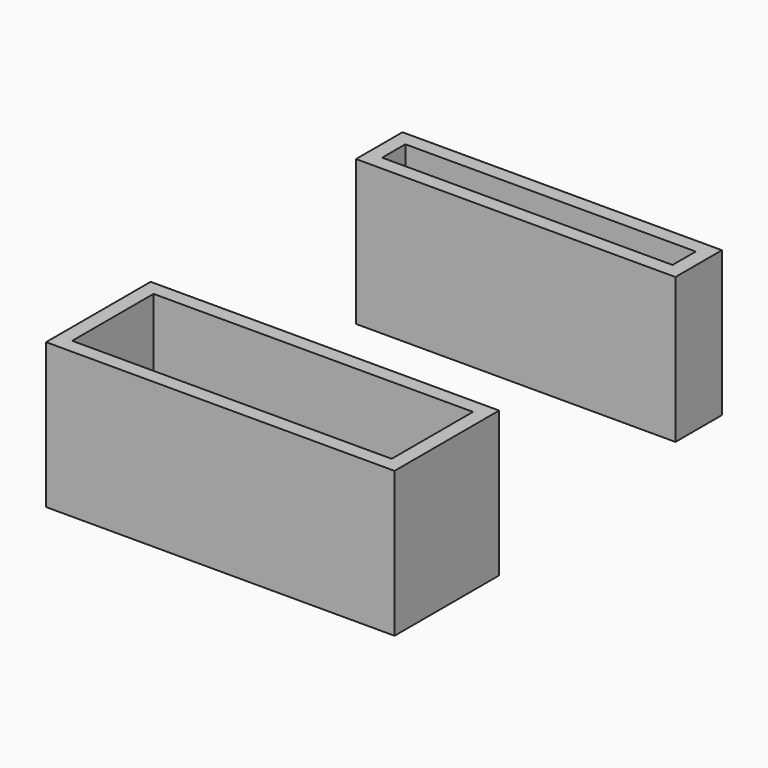
from build123d import *

# Parameters (mm, degrees)
F0_W     = 22
F0_H     = 4
F0_W_2   = 20
F0_H_2   = 2
F0_W_3   = 24
F0_H_3   = 9
F0_H_4   = 7
F1_DEPTH = 10


with BuildPart() as f1:
    # F0 (on Top) → F1 (new body)
    with BuildSketch(Plane.XY):
        with Locations((-34.087778, 15.991802)):
            Rectangle(F0_W, F0_H)
        with Locations((-34.087778, 15.991802)):
            Rectangle(F0_W_2, F0_H_2, mode=Mode.SUBTRACT)
        with Locations((-32.77999, -8.574785)):
            Rectangle(F0_W_3, F0_H_3)
        with Locations((-32.77999, -8.574785)):
            Rectangle(F0_W, F0_H_4, mode=Mode.SUBTRACT)
    extrude(amount=F1_DEPTH)


solid = f1.part
